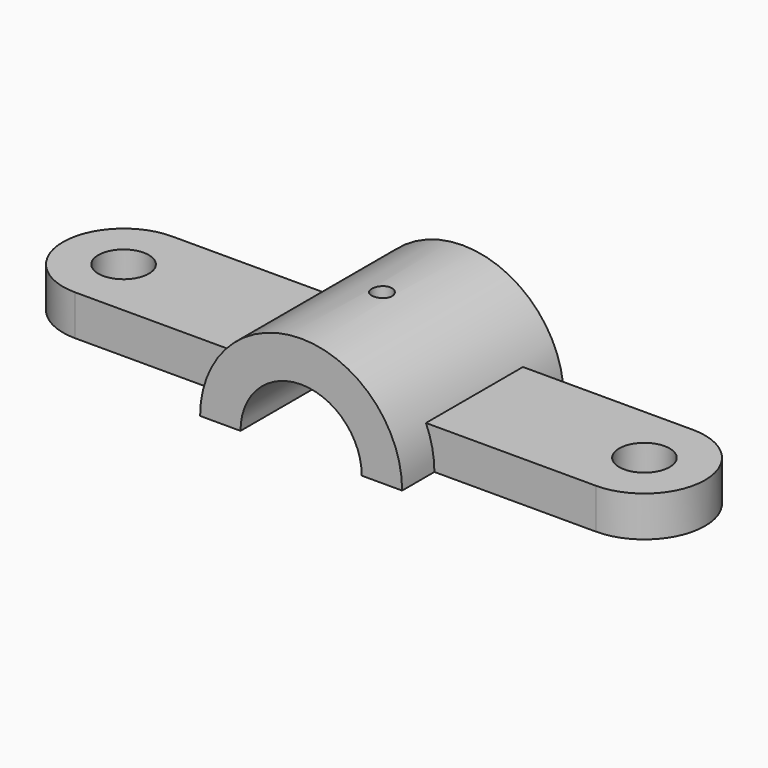
from build123d import *

# Parameters (mm, degrees)
F1_DEPTH = 31.75
F2_R     = 3.175
F3_DEPTH = 41.402
F2_R_2   = 7.9375
F4_DEPTH = 12.7


with BuildPart() as f1:
    # F0 (on Front) → F1 (new body, symmetric)
    with BuildSketch(Plane.XZ):
        with BuildLine():
            Line((-31.75, 0), (-19.05, 0))
            ThreePointArc((-19.05, 0), (0, 19.05), (19.05, 0))
            Line((19.05, 0), (31.75, 0))
            ThreePointArc((31.75, 0), (0, 31.75), (-31.75, 0))
        make_face()
    extrude(amount=F1_DEPTH, both=True)

    # F2 (on Top) → F3 (cut)
    with BuildSketch(Plane.XY):
        Circle(F2_R)
    extrude(amount=F3_DEPTH, mode=Mode.SUBTRACT)

    # F2 (on Top) → F4 (join)
    with BuildSketch(Plane.XY):
        with BuildLine():
            ThreePointArc((82.514942, -19.076727), (101.564942, -0.026727), (82.514942, 19.023273))
            Line((82.514942, 19.023273), (19.05, 19.023273))
            Line((19.05, 19.023273), (19.05, -19.076727))
            Line((19.05, -19.076727), (82.514942, -19.076727))
        make_face()
        with Locations((82.514942, -0.026727)):
            Circle(F2_R_2, mode=Mode.SUBTRACT)
        with BuildLine():
            Line((-19.05, 19.443342), (-81.509791, 19.443342))
            ThreePointArc((-81.509791, 19.443342), (-100.559791, 0.393342), (-81.509791, -18.656658))
            Line((-81.509791, -18.656658), (-19.05, -18.656658))
            Line((-19.05, -18.656658), (-19.05, 19.443342))
        make_face()
        with Locations((-81.509791, 0.393342)):
            Circle(F2_R_2, mode=Mode.SUBTRACT)
    extrude(amount=F4_DEPTH)


solid = f1.part
